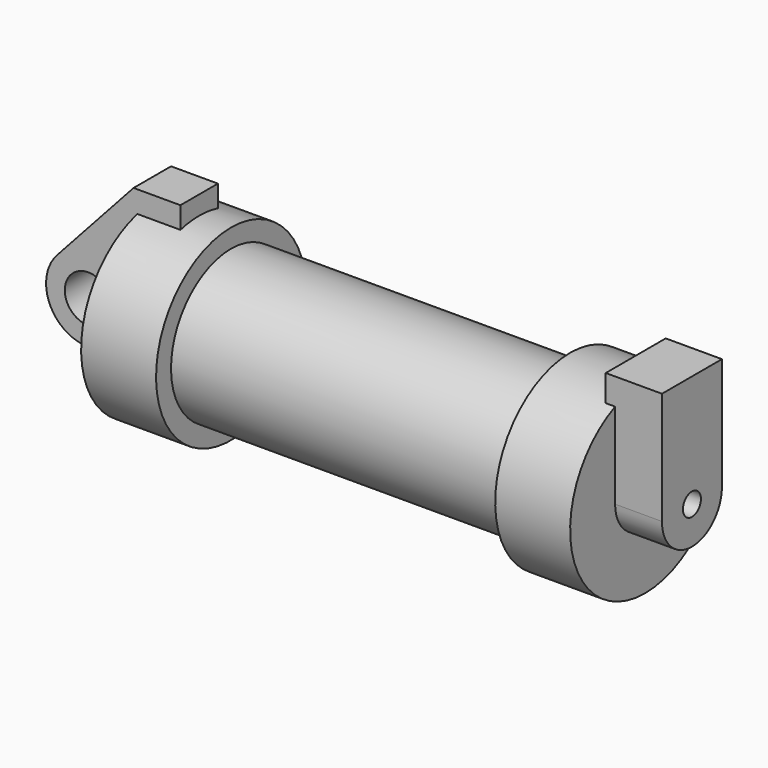
from build123d import *

# Parameters (mm, degrees)
F0_W          = 5.842
F0_H          = 12.7
F0_R          = 3.175
F2_DEPTH      = 3.175
F3_R          = 1.524
F4_DEPTH      = 6.35
F4_DEPTH_BACK = 1.27


with BuildPart() as f1:
    # F0 (on Front) → F1 (revolve)
    with BuildSketch(Plane.XZ):
        Polygon((5.842, 12.7), (5.842, 0), (66.294, 0), (66.294, 12.7), (56.134, 12.7), (56.134, 10.16), (10.16, 10.16), (10.16, 12.7), align=None)
        with Locations((2.921, 6.35)):
            Rectangle(F0_W, F0_H)
    revolve(axis=Axis((33.147, 0, 0), (-1, 0, 0)))

    # F0 (on Front) → F2 (join, symmetric)
    with BuildSketch(Plane.XZ):
        with Locations((2.921, 6.35)):
            Rectangle(F0_W, F0_H)
        with BuildLine():
            Line((-0.9398, 0), (0, 0))
            Line((0, 0), (0, 12.7))
            Line((0, 12.7), (5.842, 12.7))
            Line((5.842, 12.7), (5.842, 15.24))
            Line((5.842, 15.24), (-0.508, 15.24))
            Line((-0.508, 15.24), (-10.88063, 3.847543))
            ThreePointArc((-10.88063, 3.847543), (-4.591961, 5.329721), (-0.9398, 0))
        make_face()
        with BuildLine():
            ThreePointArc((-8.182663, -5.506983), (-3.195791, -4.549339), (-0.9398, 0))
            ThreePointArc((-0.9398, 0), (-4.591961, 5.329721), (-10.88063, 3.847543))
            ThreePointArc((-10.88063, 3.847543), (-12.145978, -1.583727), (-8.182663, -5.506983))
        make_face()
        with Locations((-6.6548, 0)):
            Circle(F0_R, mode=Mode.SUBTRACT)
    extrude(amount=F2_DEPTH, both=True)

    # F3 (on face) → F4 (join, two sides)
    with BuildSketch(Plane.YZ.offset(66.294)) as f4_sk:
        with BuildLine():
            ThreePointArc((-5.08, 0), (0, -5.08), (5.08, 0))
            ThreePointArc((5.08, 0), (0, 5.08), (-5.08, 0))
        make_face()
        Circle(F3_R, mode=Mode.SUBTRACT)
        with BuildLine():
            ThreePointArc((-5.08, 0), (0, 5.08), (5.08, 0))
            Line((5.08, 0), (5.08, 15.24))
            Line((5.08, 15.24), (-5.08, 15.24))
            Line((-5.08, 15.24), (-5.08, 0))
        make_face()
    extrude(amount=F4_DEPTH)
    extrude(f4_sk.sketch, amount=-F4_DEPTH_BACK)


solid = f1.part
